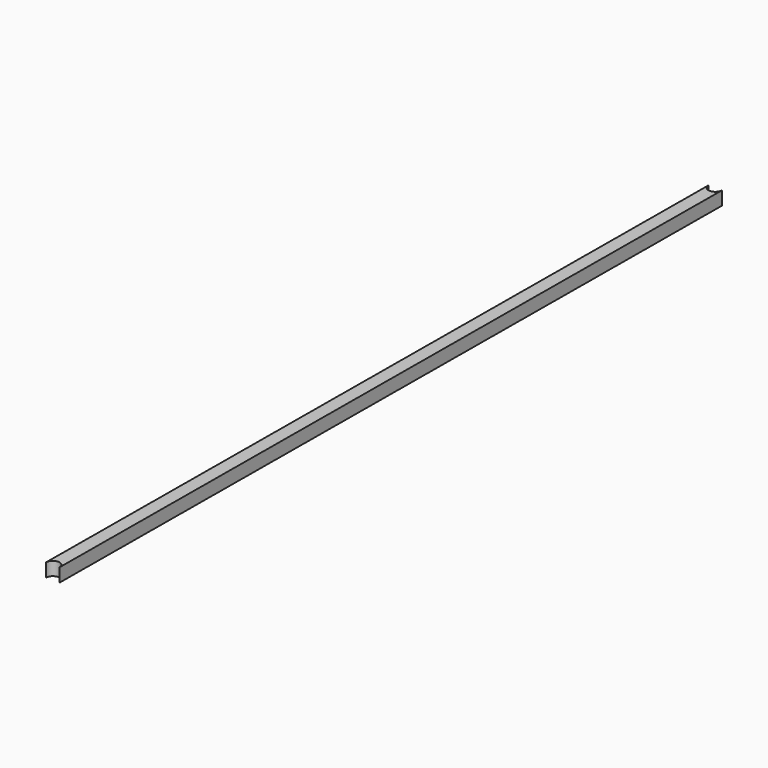
from build123d import *

# Parameters (mm, degrees)
F1_DEPTH = 24.15


with BuildPart() as f1:
    # F0 (on Top) → F1 (new body, symmetric)
    with BuildSketch(Plane.XY):
        with BuildLine():
            ThreePointArc((14.0345381969, -1468.9381826605), (14.0366137033, -1468.7468607823), (14.037173395, -1468.5555284653))
            Line((14.037173395, -1468.5555284653), (14.0345381969, -1468.9381826605))
        make_face()
    extrude(amount=F1_DEPTH, both=True)


with BuildPart() as f1b:
    # F0 (on Top) → F1, piece 2 (new body, symmetric)
    with BuildSketch(Plane.XY):
        with BuildLine():
            Line((14.037173395, -1468.5555284653), (34.2629989146, 1468.4142391983))
            ThreePointArc((34.2629989146, 1468.4142391983), (9.8532943255, 1444.6229138416), (-14.0345381969, 1468.9381826605))
            Line((-14.0345381969, 1468.9381826605), (-34.2629989146, -1468.4142391983))
            ThreePointArc((-34.2629989146, -1468.4142391983), (-10.0425474178, -1444.4302743544), (14.037173395, -1468.5555284653))
        make_face()
    extrude(amount=F1_DEPTH, both=True)


solid = Compound([f1.part, f1b.part])
